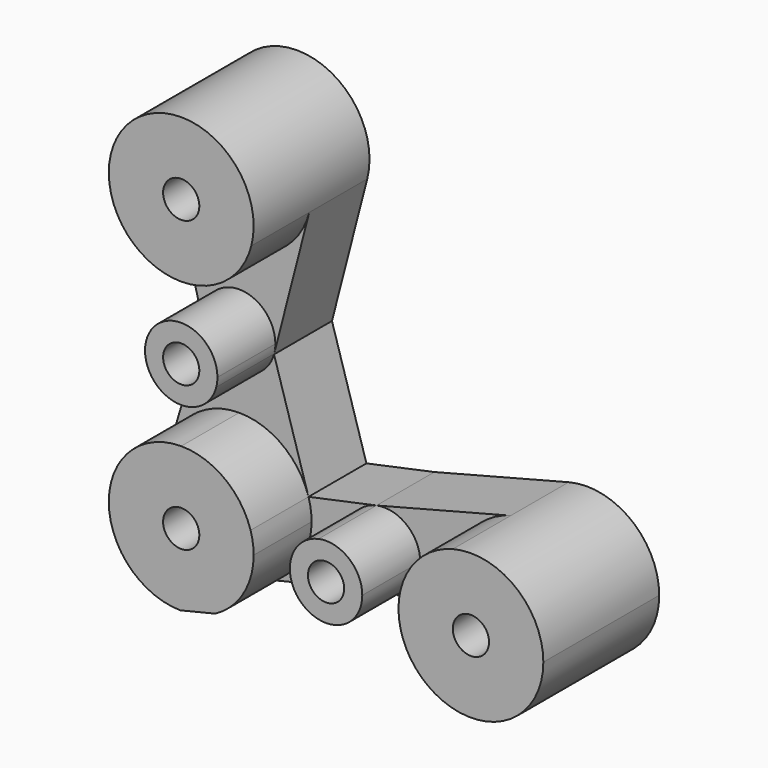
from build123d import *

# Parameters (mm, degrees)
F1_DEPTH = 50.8
F2_DEPTH = 25.4
F3_D     = 12.7
F3_2_D   = 12.7
F3_3_D   = 12.7
F3_4_D   = 12.7
F3_5_D   = 12.7


with BuildPart() as f1:
    # F0 (on Front) → F1 (new body)
    with BuildSketch(Plane.XZ):
        with BuildLine():
            ThreePointArc((-92.9063978889, 28.8260975842), (-77.3521380222, 34.1456344421), (-68.3129536404, 47.8760975842))
            ThreePointArc((-68.3129536404, 47.8760975842), (-67.7088436037, 51.0255885551), (-67.5063978889, 54.2260975842))
            ThreePointArc((-67.5063978889, 54.2260975842), (-96.1069069179, 79.4236518694), (-117.4998421373, 47.8760975842))
            ThreePointArc((-117.4998421373, 47.8760975842), (-108.4606577555, 34.1456344421), (-92.9063978889, 28.8260975842))
        make_face()
    extrude(amount=F1_DEPTH)

    # F3 (through all)
    with Locations(Plane(origin=(0, 0, 0), x_dir=(1, 0, 0), z_dir=(0, 1, 0))):
        with Locations((-92.9063978889, 47.3739024158), (-92.9063978889, -3.4260975842), (-92.9063978889, -54.2260975842), (-42.1063978889, 47.3739024158), (8.6936021111, 47.3739024158)):
            Hole(F3_D / 2)


with BuildPart() as f1b:
    # F0 (on Front) → F1, piece 2 (new body)
    with BuildSketch(Plane.XZ):
        with BuildLine():
            Line((-92.9063978889, 3.4260975842), (-92.9063978889, -9.2739024158))
            ThreePointArc((-92.9063978889, -9.2739024158), (-85.1292681832, -6.6141341632), (-80.6096759086, 0.2510970266))
            ThreePointArc((-80.6096759086, 0.2510970266), (-80.3076207826, 1.825842784), (-80.2063978889, 3.4260975842))
            ThreePointArc((-80.2063978889, 3.4260975842), (-83.9261417678, 12.4063537053), (-92.9063978889, 16.1260975842))
            Line((-92.9063978889, 16.1260975842), (-92.9063978889, 3.4260975842))
        make_face()
        with BuildLine():
            ThreePointArc((-105.2031200131, 0.2510975842), (-100.6835278222, -6.6141339869), (-92.9063978889, -9.2739024158))
            Line((-92.9063978889, -9.2739024158), (-92.9063978889, 3.4260975842))
            Line((-92.9063978889, 3.4260975842), (-92.9063978889, 16.1260975842))
            ThreePointArc((-92.9063978889, 16.1260975842), (-102.9466294599, 11.2032275175), (-105.2031200131, 0.2510975842))
        make_face()
    extrude(amount=F1_DEPTH)

    # F3#2 (through all)
    with Locations(Plane(origin=(0, 0, 0), x_dir=(1, 0, 0), z_dir=(0, 1, 0))):
        with Locations((-92.9063978889, 47.3739024158), (-92.9063978889, -3.4260975842), (-92.9063978889, -54.2260975842), (-42.1063978889, 47.3739024158), (8.6936021111, 47.3739024158)):
            Hole(F3_2_D / 2)


with BuildPart() as f1c:
    # F0 (on Front) → F1, piece 3 (new body)
    with BuildSketch(Plane.XZ):
        with BuildLine():
            ThreePointArc((-81.0323340741, -69.8275570966), (-71.149086234, -60.4803660713), (-67.5063978889, -47.3739024158))
            Line((-67.5063978889, -47.3739024158), (-92.9063978889, -47.3739024158))
            Line((-92.9063978889, -47.3739024158), (-92.9063978889, -21.9739024158))
            ThreePointArc((-92.9063978889, -21.9739024158), (-108.0836918534, -27.0070237175), (-117.2460912074, -40.1117175408))
            ThreePointArc((-117.2460912074, -40.1117175408), (-113.3719442813, -62.4178849624), (-93.2380952331, -72.7717365139))
            Line((-93.2380952331, -72.7717365139), (-81.0323340741, -69.8275570966))
        make_face()
        with BuildLine():
            Line((-92.9063978889, -47.3739024158), (-67.5063978889, -47.3739024158))
            ThreePointArc((-67.5063978889, -47.3739024158), (-67.7787746086, -43.6641115478), (-68.5900631081, -40.0338845119))
            ThreePointArc((-68.5900631081, -40.0338845119), (-77.7617033518, -26.9827713197), (-92.9063978889, -21.9739024158))
            Line((-92.9063978889, -21.9739024158), (-92.9063978889, -47.3739024158))
        make_face()
    extrude(amount=F1_DEPTH)

    # F3#3 (through all)
    with Locations(Plane(origin=(0, 0, 0), x_dir=(1, 0, 0), z_dir=(0, 1, 0))):
        with Locations((-92.9063978889, 47.3739024158), (-92.9063978889, -3.4260975842), (-92.9063978889, -54.2260975842), (-42.1063978889, 47.3739024158), (8.6936021111, 47.3739024158)):
            Hole(F3_3_D / 2)


with BuildPart() as f1d:
    # F0 (on Front) → F1, piece 4 (new body)
    with BuildSketch(Plane.XZ):
        with BuildLine():
            ThreePointArc((2.3377599205, -22.7819673547), (-11.3887084088, -31.8220277964), (-16.7063978889, -47.3739024158))
            ThreePointArc((-16.7063978889, -47.3739024158), (-11.6547110887, -62.5760782443), (1.4909367505, -71.7312752565))
            ThreePointArc((1.4909367505, -71.7312752565), (23.8957779396, -67.7222156157), (34.0936021111, -47.3739024158))
            ThreePointArc((34.0936021111, -47.3739024158), (24.2454767306, -27.2915918958), (2.3377599205, -22.7819673547))
        make_face()
    extrude(amount=F1_DEPTH)

    # F3#4 (through all)
    with Locations(Plane(origin=(0, 0, 0), x_dir=(1, 0, 0), z_dir=(0, 1, 0))):
        with Locations((-92.9063978889, 47.3739024158), (-92.9063978889, -3.4260975842), (-92.9063978889, -54.2260975842), (-42.1063978889, 47.3739024158), (8.6936021111, 47.3739024158)):
            Hole(F3_4_D / 2)


with BuildPart() as f1e:
    # F0 (on Front) → F1, piece 5 (new body)
    with BuildSketch(Plane.XZ):
        with BuildLine():
            Line((-54.8063978889, -47.3739024158), (-42.1063978889, -47.3739024158))
            Line((-42.1063978889, -47.3739024158), (-29.4063978889, -47.3739024158))
            ThreePointArc((-29.4063978889, -47.3739024158), (-34.1168870071, -37.5018349591), (-44.7540696795, -34.9529590503))
            ThreePointArc((-44.7540696795, -34.9529590503), (-51.9784653456, -39.3843915341), (-54.8063978889, -47.3739024158))
        make_face()
        with BuildLine():
            Line((-29.4063978889, -47.3739024158), (-42.1063978889, -47.3739024158))
            Line((-42.1063978889, -47.3739024158), (-54.8063978889, -47.3739024158))
            ThreePointArc((-54.8063978889, -47.3739024158), (-49.9635467661, -57.3516382071), (-39.1284118225, -59.7198166788))
            ThreePointArc((-39.1284118225, -59.7198166788), (-32.1286620975, -55.231051293), (-29.4063978889, -47.3739024158))
        make_face()
    extrude(amount=F1_DEPTH)

    # F3#5 (through all)
    with Locations(Plane(origin=(0, 0, 0), x_dir=(1, 0, 0), z_dir=(0, 1, 0))):
        with Locations((-92.9063978889, 47.3739024158), (-92.9063978889, -3.4260975842), (-92.9063978889, -54.2260975842), (-42.1063978889, 47.3739024158), (8.6936021111, 47.3739024158)):
            Hole(F3_5_D / 2)


with BuildPart() as f2:
    # F0 (on Front) → F2 (new body)
    with BuildSketch(Plane.XZ):
        with BuildLine():
            Line((-117.4998421373, 47.8760975842), (-105.2031200131, 0.2510975842))
            ThreePointArc((-105.2031200131, 0.2510975842), (-102.9466294599, 11.2032275175), (-92.9063978889, 16.1260975842))
            Line((-92.9063978889, 16.1260975842), (-92.9063978889, 28.8260975842))
            ThreePointArc((-92.9063978889, 28.8260975842), (-108.4606577555, 34.1456344421), (-117.4998421373, 47.8760975842))
        make_face()
        with BuildLine():
            ThreePointArc((-80.2063978889, 3.4260975842), (-80.3076207826, 1.825842784), (-80.6096759086, 0.2510970266))
            Line((-80.6096759086, 0.2510970266), (-68.3129536404, 47.8760975842))
            ThreePointArc((-68.3129536404, 47.8760975842), (-77.3521380222, 34.1456344421), (-92.9063978889, 28.8260975842))
            Line((-92.9063978889, 28.8260975842), (-92.9063978889, 16.1260975842))
            ThreePointArc((-92.9063978889, 16.1260975842), (-83.9261417678, 12.4063537053), (-80.2063978889, 3.4260975842))
        make_face()
    extrude(amount=F2_DEPTH)


with BuildPart() as f2b:
    # F0 (on Front) → F2, piece 2 (new body)
    with BuildSketch(Plane.XZ):
        with BuildLine():
            ThreePointArc((-117.2460912074, -40.1117175408), (-108.0836918534, -27.0070237175), (-92.9063978889, -21.9739024158))
            Line((-92.9063978889, -21.9739024158), (-92.9063978889, -9.2739024158))
            ThreePointArc((-92.9063978889, -9.2739024158), (-100.6835278222, -6.6141339869), (-105.2031200131, 0.2510975842))
            Line((-105.2031200131, 0.2510975842), (-117.2460912074, -40.1117175408))
        make_face()
        with BuildLine():
            ThreePointArc((-92.9063978889, -21.9739024158), (-77.7617033518, -26.9827713197), (-68.5900631081, -40.0338845119))
            Line((-68.5900631081, -40.0338845119), (-80.6745088821, 0))
            Line((-80.6745088821, 0), (-80.6096759086, 0.2510970266))
            ThreePointArc((-80.6096759086, 0.2510970266), (-85.1292681832, -6.6141341632), (-92.9063978889, -9.2739024158))
            Line((-92.9063978889, -9.2739024158), (-92.9063978889, -21.9739024158))
        make_face()
    extrude(amount=F2_DEPTH)


with BuildPart() as f2c:
    # F0 (on Front) → F2, piece 3 (new body)
    with BuildSketch(Plane.XZ):
        with BuildLine():
            ThreePointArc((-44.7540696795, -34.9529590503), (-34.1168870071, -37.5018349591), (-29.4063978889, -47.3739024158))
            Line((-29.4063978889, -47.3739024158), (-16.7063978889, -47.3739024158))
            ThreePointArc((-16.7063978889, -47.3739024158), (-11.3887084088, -31.8220277964), (2.3377599205, -22.7819673547))
            Line((2.3377599205, -22.7819673547), (-44.7540696795, -34.9529590503))
        make_face()
        with BuildLine():
            Line((-16.7063978889, -47.3739024158), (-29.4063978889, -47.3739024158))
            ThreePointArc((-29.4063978889, -47.3739024158), (-32.1286620975, -55.231051293), (-39.1284118225, -59.7198166788))
            Line((-39.1284118225, -59.7198166788), (1.4909367505, -71.7312752565))
            ThreePointArc((1.4909367505, -71.7312752565), (-11.6547110887, -62.5760782443), (-16.7063978889, -47.3739024158))
        make_face()
    extrude(amount=F2_DEPTH)


with BuildPart() as f2d:
    # F0 (on Front) → F2, piece 4 (new body)
    with BuildSketch(Plane.XZ):
        with BuildLine():
            ThreePointArc((-39.1284118225, -59.7198166788), (-49.9635467661, -57.3516382071), (-54.8063978889, -47.3739024158))
            Line((-54.8063978889, -47.3739024158), (-67.5063978889, -47.3739024158))
            ThreePointArc((-67.5063978889, -47.3739024158), (-71.149086234, -60.4803660713), (-81.0323340741, -69.8275570966))
            Line((-81.0323340741, -69.8275570966), (-39.1284118225, -59.7198166788))
        make_face()
        with BuildLine():
            Line((-67.5063978889, -47.3739024158), (-54.8063978889, -47.3739024158))
            ThreePointArc((-54.8063978889, -47.3739024158), (-51.9784653456, -39.3843915341), (-44.7540696795, -34.9529590503))
            Line((-44.7540696795, -34.9529590503), (-68.5900631081, -40.0338845119))
            ThreePointArc((-68.5900631081, -40.0338845119), (-67.7787746086, -43.6641115478), (-67.5063978889, -47.3739024158))
        make_face()
    extrude(amount=F2_DEPTH)


solid = Compound([f1.part, f1b.part, f1c.part, f1d.part, f1e.part, f2.part, f2b.part, f2c.part, f2d.part])
